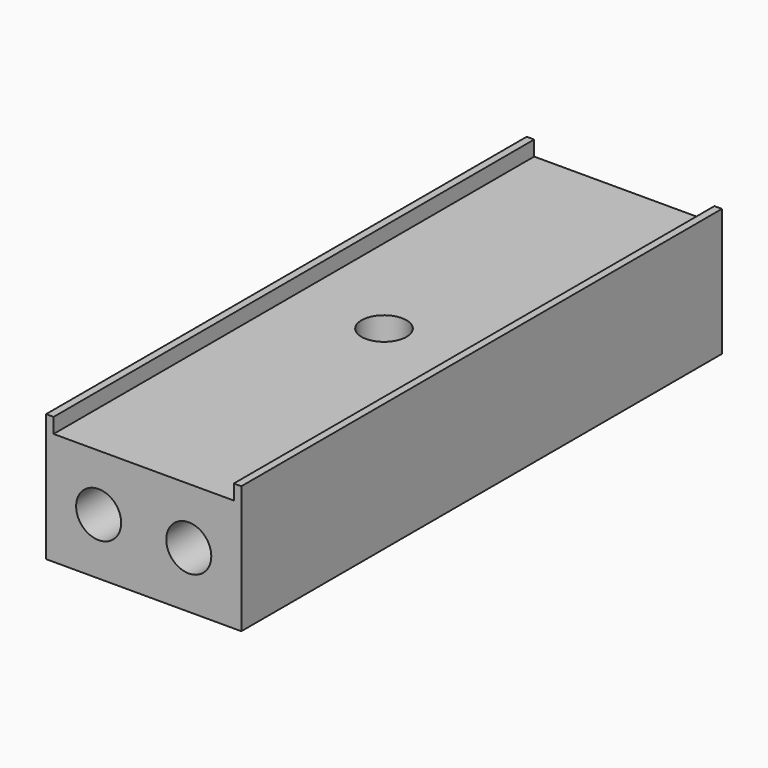
from build123d import *

# Parameters (mm, degrees)
F1_DEPTH = 40
F2_R     = 1.5
F3_DEPTH = 25
F4_R     = 1.5
F5_DEPTH = 7


with BuildPart() as f1:
    # F0 (on Front) → F1 (new body)
    with BuildSketch(Plane.XZ):
        Polygon((0, 0), (0, 7.5), (-6, 7.5), (-6, 8.5), (-6.5, 8.5), (-6.5, 0), align=None)
        Polygon((6, 7.5), (0, 7.5), (0, 0), (6.5, 0), (6.5, 8.5), (6, 8.5), align=None)
    extrude(amount=F1_DEPTH)

    # F2 (on face) → F3 (cut)
    with BuildSketch(Plane.XY.offset(7.5)):
        with Locations((0, -20)):
            Circle(F2_R)
    extrude(amount=-F3_DEPTH, mode=Mode.SUBTRACT)

    # F4 (on face) → F5 (cut)
    with BuildSketch(Plane.XZ.offset(40)):
        with Locations((-3, 3.75)):
            Circle(F4_R)
        with Locations((3, 3.75)):
            Circle(F4_R)
    extrude(amount=-F5_DEPTH, mode=Mode.SUBTRACT)


solid = f1.part
